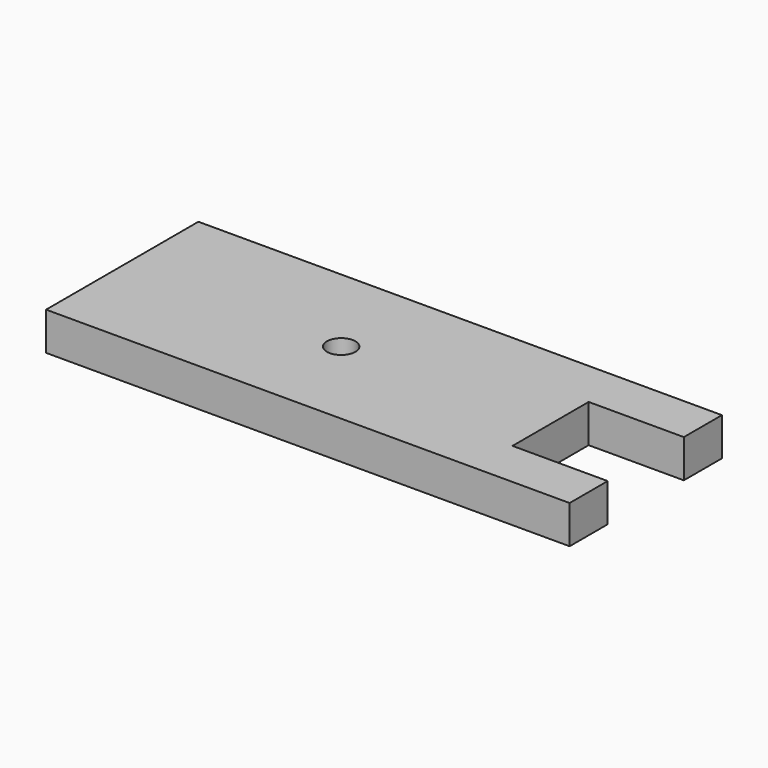
from build123d import *

# Parameters (mm, degrees)
F0_R     = 1.5
F1_DEPTH = 4


with BuildPart() as f1:
    # F0 (on Top) → F1 (new body)
    with BuildSketch(Plane.XY):
        Polygon((-23, 10), (-23, 0), (-23, -10), (32, -10), (32, -5), (22, -5), (22, 0), (22, 5), (32, 5), (32, 10), align=None)
        Circle(F0_R, mode=Mode.SUBTRACT)
    extrude(amount=F1_DEPTH)


solid = f1.part
